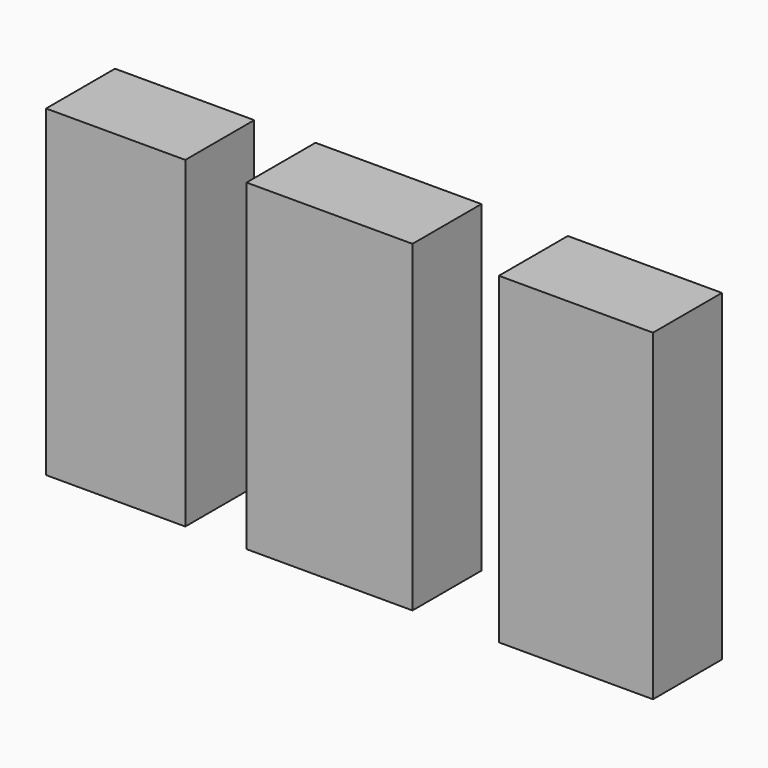
from build123d import *

# Parameters (mm, degrees)
F0_W     = 10.956902
F0_H     = 6.780162
F0_W_2   = 13.058134
F0_W_3   = 12.127498
F1_DEPTH = 25.4


with BuildPart() as f1:
    # F0 (on Top) → F1 (new body)
    with BuildSketch(Plane.XY):
        with Locations((-50.937736, 54.206792)):
            Rectangle(F0_W, F0_H)
        with Locations((-34.110766, 54.206792)):
            Rectangle(F0_W_2, F0_H)
        with Locations((-14.718968, 54.206792)):
            Rectangle(F0_W_3, F0_H)
    extrude(amount=F1_DEPTH)


solid = f1.part
